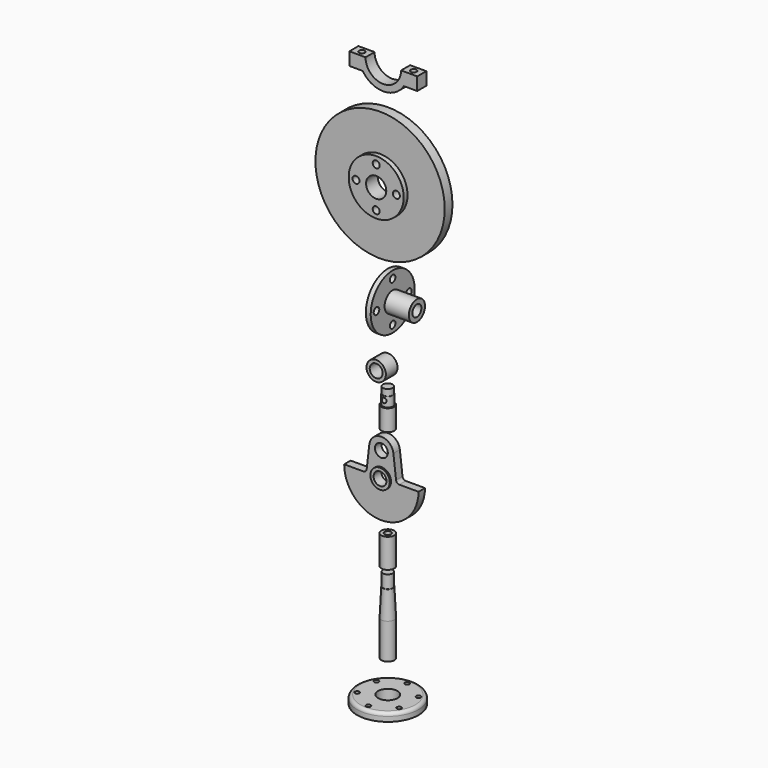
from build123d import *

# Parameters (mm, degrees)
F0_R      = 19
F0_R_2    = 6
F1_DEPTH  = 5
F2_R      = 12
F2_R_2    = 6
F3_DEPTH  = 2
F4_R      = 2
F6_DEPTH  = 25
F8_W      = 4
F8_H      = 22
F8_W_2    = 3
F8_H_2    = 8
F11_R     = 4
F11_R_2   = 2
F12_DEPTH = 18
F14_R     = 4
F15_DEPTH = 5
F16_R     = 6
F16_R_2   = 4
F17_DEPTH = 1
F22_DEPTH = 12.5
F24_R     = 6
F24_R_2   = 4
F25_DEPTH = 9
F29_R     = 2.15
F30_DEPTH = 25
F32_R     = 40
F32_R_2   = 6.25
F33_DEPTH = 6
F34_R     = 17
F34_R_2   = 6.25
F35_DEPTH = 3
F36_R     = 2.15
F37_DEPTH = 25
F40_DEPTH = 3.5
F41_R     = 1.8
F42_DEPTH = 25


with BuildPart() as f1:
    # F0 (on Top) → F1 (new body)
    with BuildSketch(Plane.XY):
        Circle(F0_R)
        Circle(F0_R_2, mode=Mode.SUBTRACT)
    extrude(amount=F1_DEPTH)

    # F2 (on face) → F3 (join)
    with BuildSketch(Plane(origin=(0, 0, 0), x_dir=(1, 0, 0), z_dir=(0, 0, -1))):
        Circle(F2_R)
        Circle(F2_R_2, mode=Mode.SUBTRACT)
    extrude(amount=F3_DEPTH)

    # F4
    f4_edges = [f1.edges().sort_by_distance(p)[0] for p in [
        (-19, 0, 5),
    ]]
    fillet(f4_edges, radius=F4_R)

    # F5 (on face) → F6 (cut)
    with BuildSketch(Plane.XY.offset(5)):
        with BuildLine():
            Line((-12.9903810568, 7.5), (-11.7779454915, 8.2))
            ThreePointArc((-11.7779454915, 8.2), (-14.2028166221, 8.2), (-12.9903810568, 6.1))
            Line((-12.9903810568, 6.1), (-12.9903810568, 7.5))
        make_face()
        with BuildLine():
            ThreePointArc((-11.5903810568, 7.5), (-11.6380849, 7.8623466631), (-11.7779454915, 8.2))
            Line((-11.7779454915, 8.2), (-12.9903810568, 7.5))
            Line((-12.9903810568, 7.5), (-12.9903810568, 6.1))
            ThreePointArc((-12.9903810568, 6.1), (-12.0004315631, 6.5100505063), (-11.5903810568, 7.5))
        make_face()
        with BuildLine():
            Line((-1.2124355653, 14.3), (0, 15))
            Line((0, 15), (1.2124355653, 14.3))
            ThreePointArc((1.2124355653, 14.3), (1.3522961568, 14.6376533369), (1.4, 15))
            ThreePointArc((1.4, 15), (-0.3623466631, 16.3522961568), (-1.2124355653, 14.3))
        make_face()
        with BuildLine():
            Line((0, 15), (0, 13.6))
            ThreePointArc((0, 13.6), (0.7, 13.7875644347), (1.2124355653, 14.3))
            Line((1.2124355653, 14.3), (0, 15))
        make_face()
        with BuildLine():
            ThreePointArc((-1.2124355653, 14.3), (-0.7, 13.7875644347), (0, 13.6))
            Line((0, 13.6), (0, 15))
            Line((0, 15), (-1.2124355653, 14.3))
        make_face()
        with BuildLine():
            ThreePointArc((14.3903810568, 7.5), (13.3527277199, 8.8522961568), (11.7779454915, 8.2))
            Line((11.7779454915, 8.2), (12.9903810568, 7.5))
            Line((12.9903810568, 7.5), (12.9903810568, 6.1))
            ThreePointArc((12.9903810568, 6.1), (13.9803305504, 6.5100505063), (14.3903810568, 7.5))
        make_face()
        with BuildLine():
            Line((12.9903810568, 7.5), (11.7779454915, 8.2))
            ThreePointArc((11.7779454915, 8.2), (11.7779454915, 6.8), (12.9903810568, 6.1))
            Line((12.9903810568, 6.1), (12.9903810568, 7.5))
        make_face()
        with BuildLine():
            ThreePointArc((14.3903810568, -7.5), (13.9803305504, -6.5100505063), (12.9903810568, -6.1))
            Line((12.9903810568, -6.1), (12.9903810568, -7.5))
            Line((12.9903810568, -7.5), (11.7779454915, -8.2))
            ThreePointArc((11.7779454915, -8.2), (13.3527277199, -8.8522961568), (14.3903810568, -7.5))
        make_face()
        with BuildLine():
            Line((12.9903810568, -7.5), (12.9903810568, -6.1))
            ThreePointArc((12.9903810568, -6.1), (11.7779454915, -6.8), (11.7779454915, -8.2))
            Line((11.7779454915, -8.2), (12.9903810568, -7.5))
        make_face()
        with BuildLine():
            Line((0, -15), (-1.2124355653, -14.3))
            ThreePointArc((-1.2124355653, -14.3), (-0.3623466631, -16.3522961568), (1.4, -15))
            ThreePointArc((1.4, -15), (1.3522961568, -14.6376533369), (1.2124355653, -14.3))
            Line((1.2124355653, -14.3), (0, -15))
        make_face()
        with BuildLine():
            ThreePointArc((1.2124355653, -14.3), (0, -13.6), (-1.2124355653, -14.3))
            Line((-1.2124355653, -14.3), (0, -15))
            Line((0, -15), (1.2124355653, -14.3))
        make_face()
        with BuildLine():
            Line((-12.9903810568, -7.5), (-12.9903810568, -6.1))
            ThreePointArc((-12.9903810568, -6.1), (-14.2028166221, -8.2), (-11.7779454915, -8.2))
            Line((-11.7779454915, -8.2), (-12.9903810568, -7.5))
        make_face()
        with BuildLine():
            ThreePointArc((-11.5903810568, -7.5), (-12.0004315631, -6.5100505063), (-12.9903810568, -6.1))
            Line((-12.9903810568, -6.1), (-12.9903810568, -7.5))
            Line((-12.9903810568, -7.5), (-11.7779454915, -8.2))
            ThreePointArc((-11.7779454915, -8.2), (-11.6380849, -7.8623466631), (-11.5903810568, -7.5))
        make_face()
    extrude(amount=-F6_DEPTH, mode=Mode.SUBTRACT)


with BuildPart() as f1_1:
    # F7: moved
    add(f1.part.moved(Location((0, 0, 100))))


with BuildPart() as f9:
    # F8 (on Front) → F9 (revolve)
    with BuildSketch(Plane.XZ):
        with Locations((2, 11)):
            Rectangle(F8_W, F8_H)
        Polygon((0, 39), (0, 22), (4, 22), (3.175, 39), (3, 39), align=None)
        with Locations((1.5, 43)):
            Rectangle(F8_W_2, F8_H_2)
    revolve(axis=Axis((0, 0, 23.5), (0, 0, 1)))


with BuildPart() as f9_1:
    # F10: moved
    add(f9.part.moved(Location((0, 0, 125))))


with BuildPart() as f12:
    # F11 (on Top) → F12 (new body)
    with BuildSketch(Plane.XY):
        Circle(F11_R)
        Circle(F11_R_2, mode=Mode.SUBTRACT)
    extrude(amount=F12_DEPTH)


with BuildPart() as f12_1:
    # F13: moved
    add(f12.part.moved(Location((0, 0, 175))))


with BuildPart() as f15:
    # F14 (on Front) → F15 (new body)
    with BuildSketch(Plane.XZ):
        with BuildLine():
            Line((-11.3, 0), (-23, 0))
            ThreePointArc((-23, 0), (0, -23), (23, 0))
            Line((23, 0), (11.0803286258, 0))
            ThreePointArc((11.0803286258, 0), (9.7505369336, 0.5061278317), (9.0937898271, 1.7683459448))
            Line((9.0937898271, 1.7683459448), (7.4495204951, 15.868702707))
            ThreePointArc((7.4495204951, 15.868702707), (0, 22.5), (-7.4495204951, 15.868702707))
            Line((-7.4495204951, 15.868702707), (-9.0937898271, 1.7683459448))
            ThreePointArc((-9.0937898271, 1.7683459448), (-9.7505369336, 0.5061278317), (-11.0803286258, 0))
            Line((-11.0803286258, 0), (-11.3, 0))
        make_face()
        Circle(F14_R, mode=Mode.SUBTRACT)
        with Locations((0, 15)):
            Circle(F14_R, mode=Mode.SUBTRACT)
    extrude(amount=F15_DEPTH)

    # F16 (on face) → F17 (join)
    with BuildSketch(Plane.XZ.offset(5)):
        Circle(F16_R)
        Circle(F16_R_2, mode=Mode.SUBTRACT)
    extrude(amount=F17_DEPTH)


with BuildPart() as f15_1:
    # F18: moved
    add(f15.part.moved(Location((0, 0, 225))))


with BuildPart() as f20:
    # F19 (on Front) → F20 (revolve)
    with BuildSketch(Plane.XZ):
        Polygon((0, 13), (0, 0), (4, 0), (4, 13), (3.175, 13), (3.175, 19), (3, 19), (3, 23), (0, 23), (0, 19), align=None)
    revolve(axis=Axis((0, 0, 11.5), (0, 0, 1)))

    # F21 (on Front) → F22 (cut, symmetric)
    with BuildSketch(Plane.XZ):
        with BuildLine():
            ThreePointArc((0, 15.05), (1.0606601718, 15.4893398282), (1.5, 16.55))
            ThreePointArc((1.5, 16.55), (-1.0606601718, 17.6106601718), (0, 15.05))
        make_face()
    extrude(amount=F22_DEPTH, both=True, mode=Mode.SUBTRACT)


with BuildPart() as f20_1:
    # F23: moved
    add(f20.part.moved(Location((0, 0, 250))))


with BuildPart() as f25:
    # F24 (on Front) → F25 (new body)
    with BuildSketch(Plane.XZ):
        Circle(F24_R)
        Circle(F24_R_2, mode=Mode.SUBTRACT)
    extrude(amount=F25_DEPTH)


with BuildPart() as f25_1:
    # F26: moved
    add(f25.part.moved(Location((0, 0, 285))))


with BuildPart() as f28:
    # F27 (on Front) → F28 (revolve)
    with BuildSketch(Plane.XZ):
        Polygon((-1, 6.25), (-1, 4), (0, 3.9723684211), (0, 6.25), align=None)
        Polygon((0, 6.25), (0, 3.9723684211), (3, 3.8894736842), (3, 6.25), (3, 17), (0, 17), align=None)
        Polygon((3, 6.25), (3, 3.8894736842), (18, 3.475), (18, 6.25), align=None)
    revolve(axis=Axis((1.5, 0, 0), (-1, 0, 0)))

    # F29 (on face) → F30 (cut)
    with BuildSketch(Plane(origin=(0, 0, 0), x_dir=(0, -1, 0), z_dir=(-1, 0, 0))):
        with Locations((0, 12.5)):
            Circle(F29_R)
        with Locations((0, -12.5)):
            Circle(F29_R)
        with BuildLine():
            ThreePointArc((10.35, 0), (12.5, -2.15), (14.65, 0))
            ThreePointArc((14.65, 0), (12.5, 2.15), (10.35, 0))
        make_face()
        with Locations((-12.5, 0)):
            Circle(F29_R)
    extrude(amount=-F30_DEPTH, mode=Mode.SUBTRACT)


with BuildPart() as f28_1:
    # F31: moved
    add(f28.part.moved(Location((0, 0, 320))))


with BuildPart() as f33:
    # F32 (on Front) → F33 (new body)
    with BuildSketch(Plane.XZ):
        Circle(F32_R)
        Circle(F32_R_2, mode=Mode.SUBTRACT)
    extrude(amount=F33_DEPTH)

    # F34 (on face) → F35 (join)
    with BuildSketch(Plane.XZ.offset(6)):
        Circle(F34_R)
        Circle(F34_R_2, mode=Mode.SUBTRACT)
    extrude(amount=F35_DEPTH)

    # F36 (on face) → F37 (cut)
    with BuildSketch(Plane.XZ.offset(9)):
        with Locations((0, 12.5)):
            Circle(F36_R)
        with Locations((12.5, 0)):
            Circle(F36_R)
        with Locations((0, -12.5)):
            Circle(F36_R)
        with Locations((-12.5, 0)):
            Circle(F36_R)
    extrude(amount=-F37_DEPTH, mode=Mode.SUBTRACT)


with BuildPart() as f33_1:
    # F38: moved
    add(f33.part.moved(Location((0, 0, 385))))


with BuildPart() as f40:
    # F39 (on Front) → F40 (new body, symmetric)
    with BuildSketch(Plane.XZ):
        with BuildLine():
            ThreePointArc((11, 0), (0, -11), (-11, 0))
            Line((-11, 0), (-15, 0))
            ThreePointArc((-15, 0), (-14.4112701847, -4.1611647003), (-12.6912944449, -7.9956891706))
            ThreePointArc((-12.6912944449, -7.9956891706), (0, -15), (12.6912944449, -7.9956891706))
            ThreePointArc((12.6912944449, -7.9956891706), (14.4112701847, -4.1611647003), (15, 0))
            Line((15, 0), (11, 0))
        make_face()
        with BuildLine():
            ThreePointArc((-12.6912944449, -7.9956891706), (-14.4112701847, -4.1611647003), (-15, 0))
            Line((-15, 0), (-21, 0))
            Line((-21, 0), (-21, -8))
            Line((-21, -8), (-12.7, -8))
            Line((-12.7, -8), (-12.6912944449, -7.9956891706))
        make_face()
        with BuildLine():
            Line((21, 0), (15, 0))
            ThreePointArc((15, 0), (14.4112701847, -4.1611647003), (12.6912944449, -7.9956891706))
            Line((12.6912944449, -7.9956891706), (12.7, -8))
            Line((12.7, -8), (21, -8))
            Line((21, -8), (21, 0))
        make_face()
    extrude(amount=F40_DEPTH, both=True)

    # F41 (on face) → F42 (cut)
    with BuildSketch(Plane.XY):
        with Locations((-16, 0)):
            Circle(F41_R)
        with Locations((16, 0)):
            Circle(F41_R)
    extrude(amount=-F42_DEPTH, mode=Mode.SUBTRACT)


with BuildPart() as f40_1:
    # F43: moved
    add(f40.part.moved(Location((0, 0, 450))))


solid = Compound([f1_1.part, f9_1.part, f12_1.part, f15_1.part, f20_1.part, f25_1.part, f28_1.part, f33_1.part, f40_1.part])
